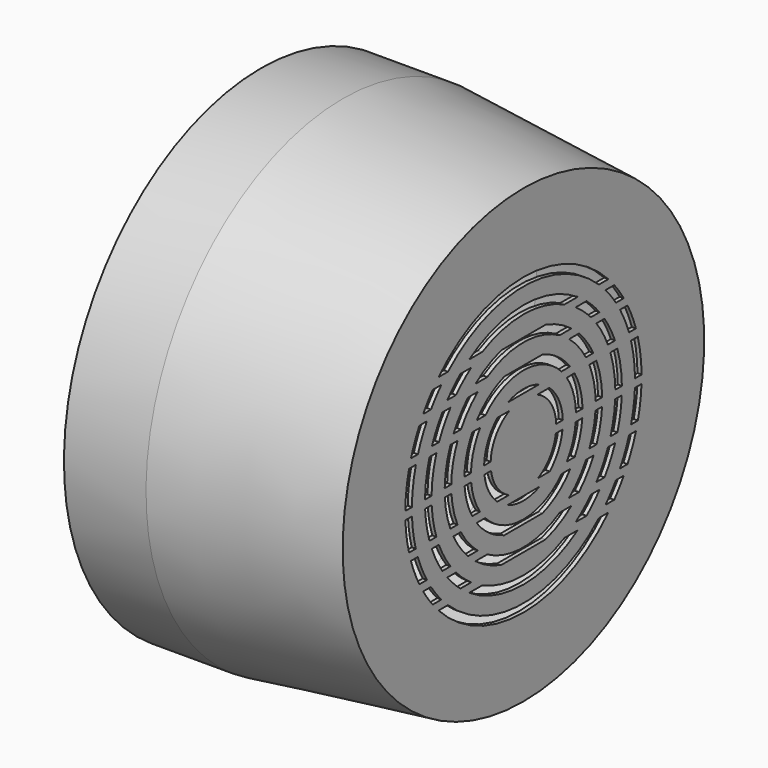
from build123d import *

# Parameters (mm, degrees)
F2_R     = 228.6
F2_R_2   = 215.9
F2_R_3   = 190.5
F2_R_4   = 177.8
F2_R_5   = 152.4
F2_R_6   = 139.7
F2_R_7   = 114.3
F2_R_8   = 101.6
F2_R_9   = 76.2
F2_R_10  = 63.5
F3_DEPTH = 25.4
F4_W     = 508
F4_H     = 12.7
F5_DEPTH = 6.35


with BuildPart() as f1:
    # F0 (on Front) → F1 (revolve)
    with BuildSketch(Plane.XZ):
        Polygon((127, 381), (0, 381), (0, 374.65), (127, 374.65), (400.05, 343.519449234), (400.05, 0), (406.4, 0), (406.4, 349.7411531807), align=None)
    revolve(axis=Axis((245.6096168607, 0, 0), (1, 0, 0)))

    # F2 (on face) → F3 (cut)
    with BuildSketch(Plane.YZ.offset(406.4)):
        Circle(F2_R)
        Circle(F2_R_2, mode=Mode.SUBTRACT)
        Circle(F2_R_3)
        Circle(F2_R_4, mode=Mode.SUBTRACT)
        Circle(F2_R_5)
        Circle(F2_R_6, mode=Mode.SUBTRACT)
        Circle(F2_R_7)
        Circle(F2_R_8, mode=Mode.SUBTRACT)
        Circle(F2_R_9)
        Circle(F2_R_10, mode=Mode.SUBTRACT)
    extrude(amount=-F3_DEPTH, mode=Mode.SUBTRACT)

    # F4 (on face) → F5 (join)
    with BuildSketch(Plane.YZ.offset(406.4)):
        with Locations((0, 152.6428312063)):
            Rectangle(F4_W, F4_H)
        with Locations((0, 114.4814267755)):
            Rectangle(F4_W, F4_H)
        with Locations((0, 63.7669190764)):
            Rectangle(F4_W, F4_H)
        with Locations((0, -63.2703974843)):
            Rectangle(F4_W, F4_H)
        with Locations((0, -114.4870296121)):
            Rectangle(F4_W, F4_H)
        with Locations((0, -152.6484340429)):
            Rectangle(F4_W, F4_H)
        with Locations((0, -3.5423066001)):
            Rectangle(F4_W, F4_H)
    extrude(amount=-F5_DEPTH)


solid = f1.part
